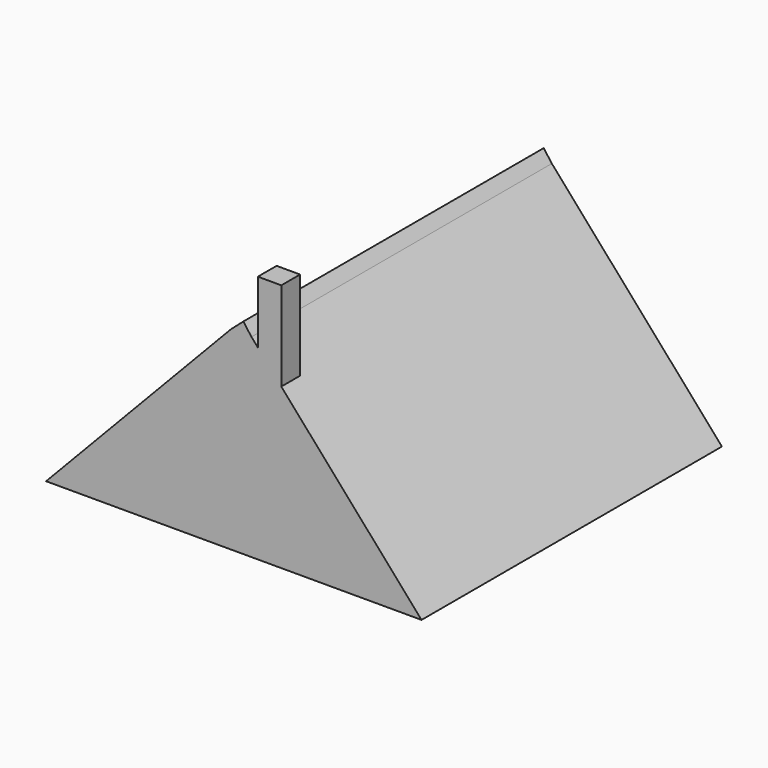
from build123d import *

# Parameters (mm, degrees)
F1_DEPTH = 101.6
F3_DEPTH = 6.35
F4_W     = 10.16
F4_H     = 10.16
F5_DEPTH = 12.7
F6_W     = 10.16
F6_H     = 10.16
F7_DEPTH = 12.7


with BuildPart() as f1:
    # F0 (on Front) → F1 (new body)
    with BuildSketch(Plane.XZ):
        Polygon((-3.390036, 1.964426), (-53.382213, -50.482459), (48.217787, -50.482459), (2.192216, 1.964426), (0, 4.939404), align=None)
    extrude(amount=F1_DEPTH)

    # F2 (on face) → F3 (join)
    with BuildSketch(Plane.XZ.offset(101.6)):
        Polygon((3.916128, 16.882844), (3.916128, 0), (10.266128, -7.235928), (10.266128, 16.882844), align=None)
    extrude(amount=-F3_DEPTH)

    # F4 (on face) → F5 (join)
    with BuildSketch(Plane(origin=(0, 0, -50.482459), x_dir=(1, 0, 0), z_dir=(0, 0, -1))):
        with Locations((-2.582213, 50.8)):
            Rectangle(F4_W, F4_H)
    extrude(amount=-F5_DEPTH)

    # F6 (on face) → F7 (join)
    with BuildSketch(Plane(origin=(0, 0, -50.482459), x_dir=(1, 0, 0), z_dir=(0, 0, -1))):
        with Locations((-2.582213, 50.8)):
            Rectangle(F6_W, F6_H)
    extrude(amount=F7_DEPTH)


solid = f1.part
